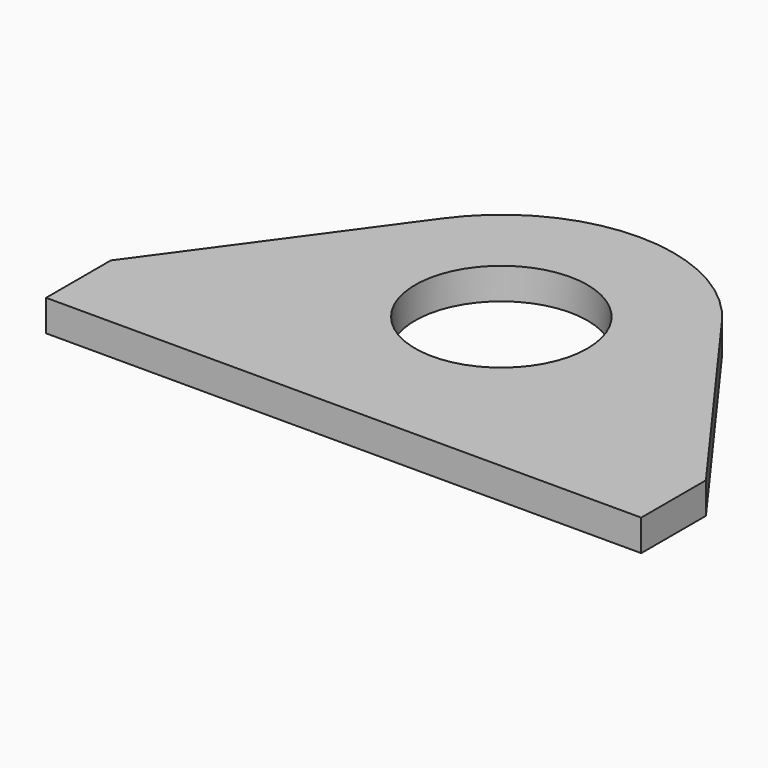
from build123d import *

# Parameters (mm, degrees)
SKETCH_R  = 27.5
PAD_DEPTH = 10


with BuildPart() as part:
    # Sketch → Pad (new body)
    with BuildSketch(Plane.XY):
        with BuildLine():
            Line((-95, 0), (-95, 25.815306))
            Line((-95, 25.815306), (-44.495935, 95.328189))
            ThreePointArc((0, 118), (-24.969477, 112.005359), (-44.495935, 95.328189))
            ThreePointArc((44.495935, 95.328189), (24.969477, 112.005359), (0, 118))
            Line((95, 25.815306), (44.495935, 95.328189))
            Line((95, 0), (95, 25.815306))
            Line((-95, 0), (95, 0))
        make_face()
        with Locations((0, 62.91)):
            Circle(SKETCH_R, mode=Mode.SUBTRACT)
    extrude(amount=PAD_DEPTH)


solid = part.part
